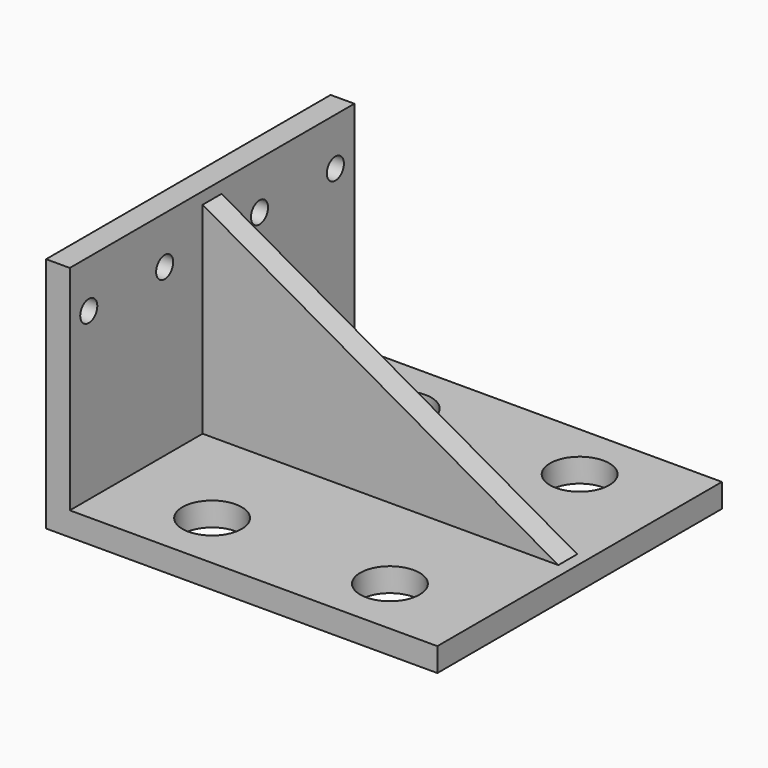
from build123d import *

# Parameters (mm, degrees)
F1_DEPTH      = 75
F1_DEPTH_BACK = 75
F3_DEPTH      = 5
F3_DEPTH_BACK = 5
F4_R          = 4.5
F5_DEPTH      = 10
F6_R          = 12.5
F7_DEPTH      = 10


with BuildPart() as f1:
    # F0 (on Front) → F1 (new body, two sides)
    with BuildSketch(Plane.XZ) as f1_sk:
        Polygon((0, 90), (-10, 90), (-10, -10), (155, -10), (155, 0), (0, 0), align=None)
    extrude(amount=F1_DEPTH)
    extrude(f1_sk.sketch, amount=-F1_DEPTH_BACK)

    # F2 (on Front) → F3 (join, two sides)
    with BuildSketch(Plane.XZ) as f3_sk:
        Polygon((150, 0), (0, 85), (0, 0), align=None)
    extrude(amount=F3_DEPTH)
    extrude(f3_sk.sketch, amount=-F3_DEPTH_BACK)

    # F4 (on Right) → F5 (cut, through all)
    with BuildSketch(Plane.YZ):
        with Locations((-65, 70)):
            Circle(F4_R)
        with Locations((-25, 70)):
            Circle(F4_R)
        with Locations((25, 70)):
            Circle(F4_R)
        with Locations((65, 70)):
            Circle(F4_R)
    extrude(amount=-F5_DEPTH, mode=Mode.SUBTRACT)

    # F6 (on Top) → F7 (cut, through all)
    with BuildSketch(Plane.XY):
        with Locations((40, 50)):
            Circle(F6_R)
        with Locations((115, 50)):
            Circle(F6_R)
        with Locations((115, -50)):
            Circle(F6_R)
        with Locations((40, -50)):
            Circle(F6_R)
    extrude(amount=-F7_DEPTH, mode=Mode.SUBTRACT)


solid = f1.part
